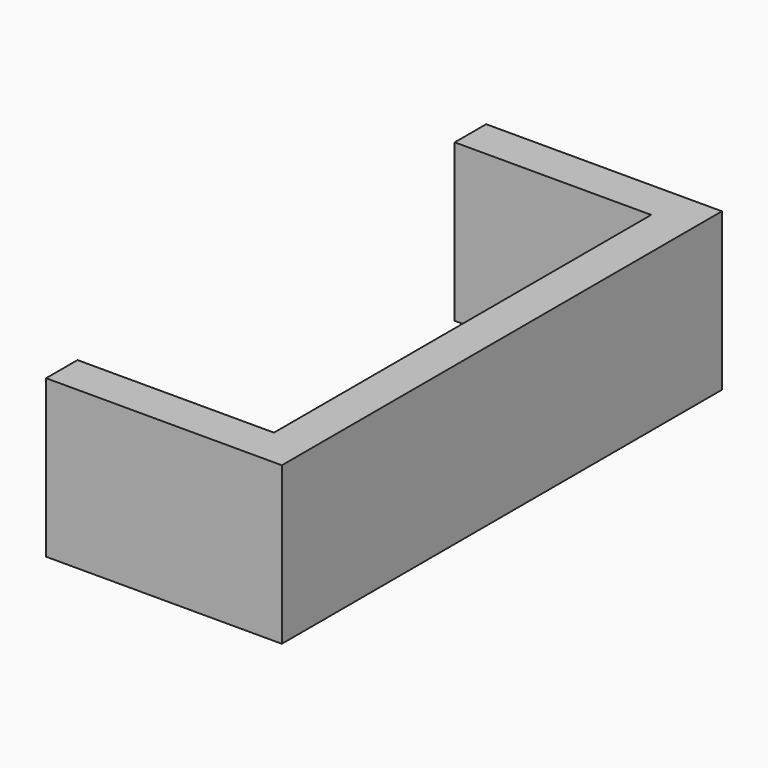
from build123d import *

# Parameters (mm, degrees)
F0_W     = 50.8
F0_H     = 609.6
F1_DEPTH = 203.2


with BuildPart() as f1:
    # F0 (on Top) → F1 (new body)
    with BuildSketch(Plane.XY):
        Polygon((0, 50.8), (0, 0), (254, 0), (304.8, 0), (304.8, 50.8), align=None)
        with Locations((279.4, -304.8)):
            Rectangle(F0_W, F0_H)
        Polygon((304.8, -609.6), (254, -609.6), (0, -609.6), (0, -660.4), (304.8, -660.4), align=None)
    extrude(amount=F1_DEPTH)


solid = f1.part
